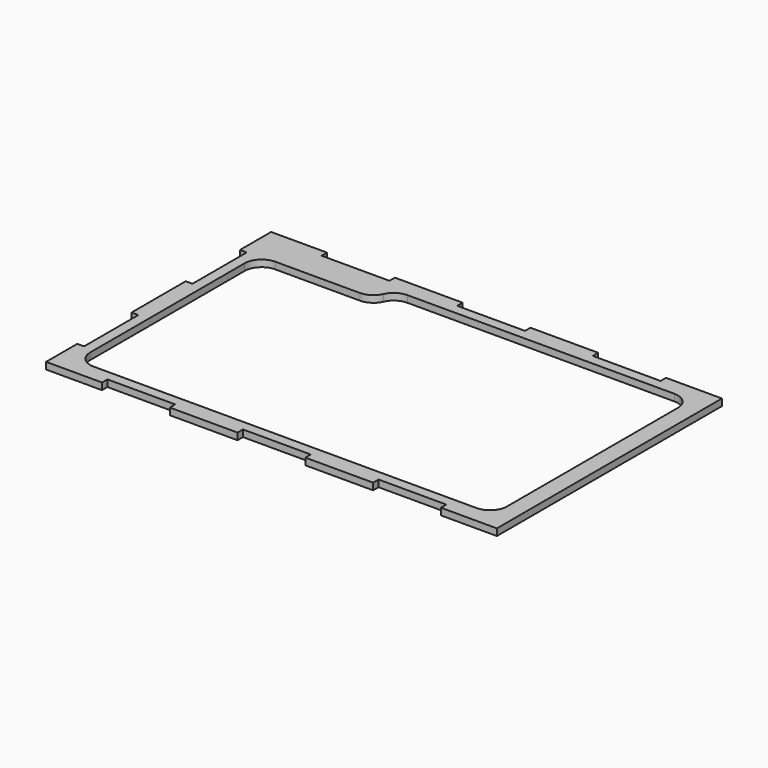
from build123d import *

# Parameters (mm, degrees)
SKETCH013_W     = 166
SKETCH013_H     = 266
PAD010_DEPTH    = 4
SKETCH017_W     = 26
SKETCH017_H     = 40
POCKET002_DEPTH = 631.146916
SKETCH018_W     = 40
SKETCH018_H     = 30
POCKET003_DEPTH = 4.001
POCKET012_DEPTH = 4.001


with BuildPart() as part:
    # Sketch013 (on DatumPlane) → Pad010 (new body)
    with BuildSketch(Plane(origin=(-31.154728, 0, 47), x_dir=(0, -1, 0), z_dir=(0, 0, -1))):
        with Locations((0, -31.154728)):
            Rectangle(SKETCH013_W, SKETCH013_H)
    extrude(amount=PAD010_DEPTH)

    # Sketch017 (on Face5 of Pad010) → Pocket002 (cut, through all)
    with BuildSketch(Plane(origin=(-31.154728, 0, 47), x_dir=(0, -1, 0), z_dir=(0, 0, 1))):
        with Locations((-92, 111.154728)):
            Rectangle(SKETCH017_W, SKETCH017_H)
        with Locations((-92, 31.154728)):
            Rectangle(SKETCH017_W, SKETCH017_H)
        with Locations((-92, -48.845272)):
            Rectangle(SKETCH017_W, SKETCH017_H)
    pocket002 = extrude(amount=-POCKET002_DEPTH, mode=Mode.SUBTRACT)

    # Mirrored004: Pocket002 across Sketch017 V_Axis
    add(pocket002.mirror(Plane(origin=(-31.154728, 0, 47), x_dir=(0, 0, 1), z_dir=(0, -1, 0))), mode=Mode.SUBTRACT)

    # Sketch018 (on Face4 of Mirrored004) → Pocket003 (cut, through all)
    with BuildSketch(Plane(origin=(-31.154728, 0, 47), x_dir=(0, -1, 0), z_dir=(0, 0, 1))):
        with Locations((-40, -112.845272)):
            Rectangle(SKETCH018_W, SKETCH018_H)
        with Locations((40, -112.845272)):
            Rectangle(SKETCH018_W, SKETCH018_H)
    extrude(amount=-POCKET003_DEPTH, mode=Mode.SUBTRACT)

    # Sketch029 (on Face2 of Pocket003) → Pocket012 (cut, through all)
    with BuildSketch(Plane(origin=(-31.154728, 0, 47), x_dir=(0, -1, 0), z_dir=(0, 0, 1))):
        with BuildLine():
            Line((-63, 154.154728), (63, 154.154728))
            ThreePointArc((73, 144.154728), (70.071068, 151.225796), (63, 154.154728))
            Line((73, 144.154728), (73, -81.845272))
            ThreePointArc((63, -91.845272), (70.071068, -88.91634), (73, -81.845272))
            Line((63, -91.845272), (-51, -91.845272))
            ThreePointArc((-61, -81.845272), (-58.071068, -88.91634), (-51, -91.845272))
            Line((-61, -81.845272), (-61, -31.845272))
            ThreePointArc((-61, -31.845272), (-62.6334, -26.368047), (-67, -22.680121))
            ThreePointArc((-73, -13.514969), (-71.3666, -18.992195), (-67, -22.680121))
            Line((-73, -13.514969), (-73, 144.154728))
            ThreePointArc((-63, 154.154728), (-70.071068, 151.225796), (-73, 144.154728))
        make_face()
    extrude(amount=-POCKET012_DEPTH, mode=Mode.SUBTRACT)


solid = part.part
